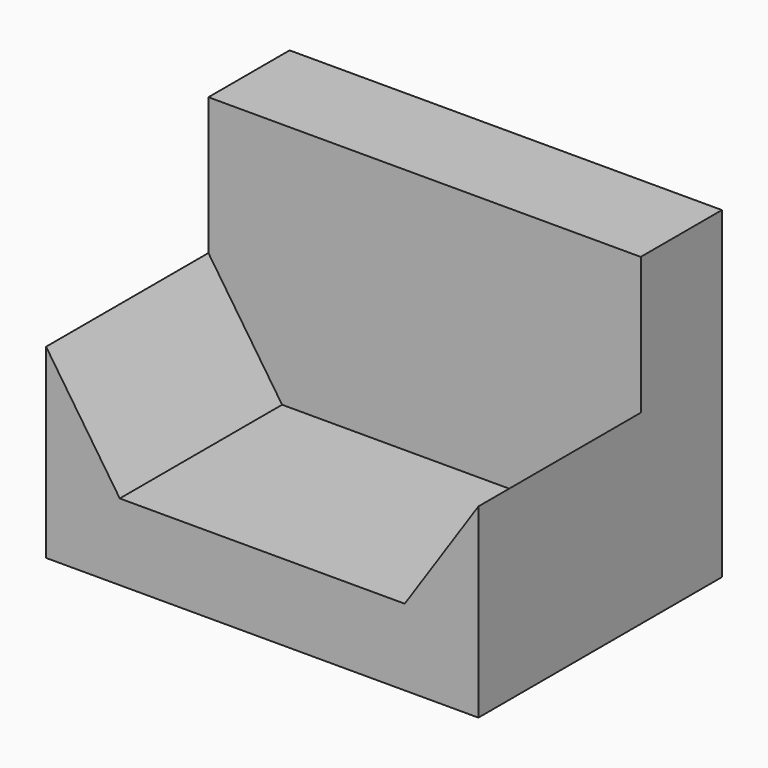
from build123d import *

# Parameters (mm, degrees)
F0_W     = 108.235746
F0_H     = 80.899004
F1_DEPTH = 25.4
F3_DEPTH = 50.8


with BuildPart() as f1:
    # F0 (on Front) → F1 (new body)
    with BuildSketch(Plane.XZ):
        with Locations((0, -6.111877)):
            Rectangle(F0_W, F0_H)
    extrude(amount=-F1_DEPTH)

    # F2 (on face) → F3 (join)
    with BuildSketch(Plane.XZ):
        Polygon((-35.671126, -27.447874), (-54.117873, -27.447874), (-54.117873, -46.561379), (54.117873, -46.561379), (54.117873, -27.447874), (35.671126, -27.447874), align=None)
        Polygon((-54.117873, 0), (-54.117873, -27.447874), (-35.671126, -27.447874), align=None)
        Polygon((54.117873, 0), (35.671126, -27.447874), (54.117873, -27.447874), align=None)
    extrude(amount=F3_DEPTH)


solid = f1.part
